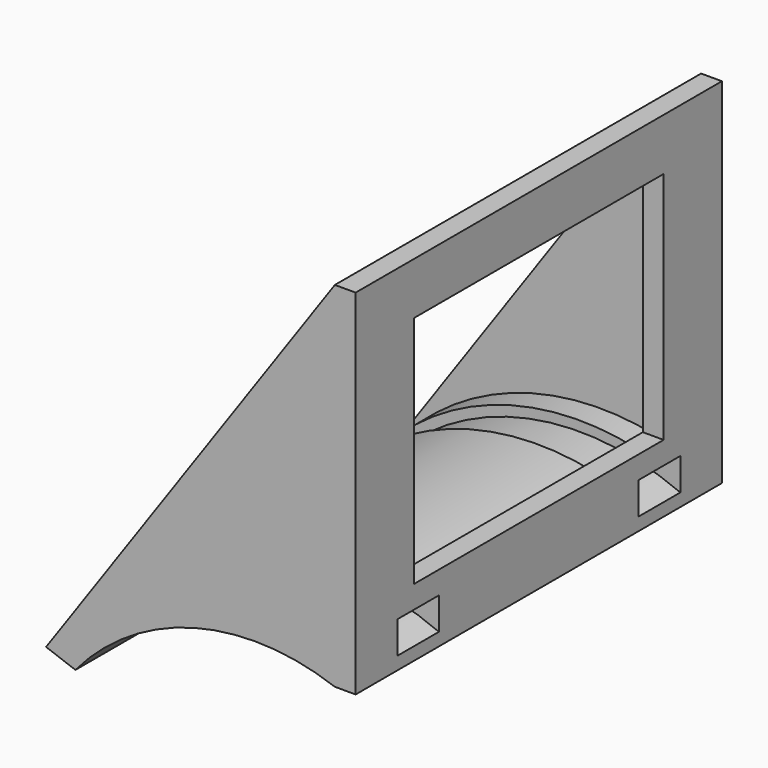
from build123d import *

# Parameters (mm, degrees)
F0_W     = 44
F0_H     = 34
F0_W_2   = 30
F0_H_2   = 22.5
F1_DEPTH = 2
F3_W     = 44
F3_H     = 3
F6_DEPTH = 2.5
F9_W     = 3
F9_H     = 5


with BuildPart() as f1:
    # F0 (on Right) → F1 (new body)
    with BuildSketch(Plane.YZ):
        Rectangle(F0_W, F0_H)
        with Locations((0, 0.75)):
            Rectangle(F0_W_2, F0_H_2, mode=Mode.SUBTRACT)
    extrude(amount=F1_DEPTH)

    # F4: sweep along a path in F2
    with BuildLine(Plane.XZ.offset(22)) as f4_path:
        ThreePointArc((0, -17), (-13.5188817396, -16.4097528762), (-24.931453195, -23.6803627497))
    # F3 (on face) → F4 (sweep)
    with BuildSketch(Plane(origin=(0, 0, 0), x_dir=(0, -1, 0), z_dir=(-1, 0, 0))):
        with Locations((0, -15.5)):
            Rectangle(F3_W, F3_H)
    sweep(path=f4_path.line)

    # F5 (on face) → F6 (join)
    with BuildSketch(Plane.XZ.offset(22)):
        with BuildLine():
            Line((0, -14), (0, 17))
            Line((0, 17), (-27.7505310574, -22.6543023198))
            ThreePointArc((-27.7505310574, -22.6543023198), (-15.2396110487, -13.9522967433), (0, -14))
        make_face()
    extrude(amount=-F6_DEPTH)


with BuildPart() as f7_1:
    # F7: instance of F1
    add(f1.part.mirror(Plane.XZ))


with BuildPart() as f1_1:
    add(f1.part)

    # F8: union F7_1
    add(f7_1.part)

    # F10: sweep along a path in F2
    with BuildLine(Plane.XZ.offset(22)) as f10_path:
        ThreePointArc((-24.931453195, -23.6803627497), (-10.8151434968, -15.8604105956), (4.9059770967, -19.5029671802))
    # F9 (on face) → F10 (sweep, cut)
    with BuildSketch(Plane(origin=(-10.5271478923, 0, -28.9231011252), x_dir=(0.9396926208, 0, -0.3420201433), z_dir=(-0.3420201433, 0, -0.9396926208))):
        with Locations((-18.8287415311, -14.5)):
            Rectangle(F9_W, F9_H)
        with Locations((-18.8287415311, 14.5)):
            Rectangle(F9_W, F9_H)
    sweep(path=f10_path.line, mode=Mode.SUBTRACT)


solid = f1_1.part
